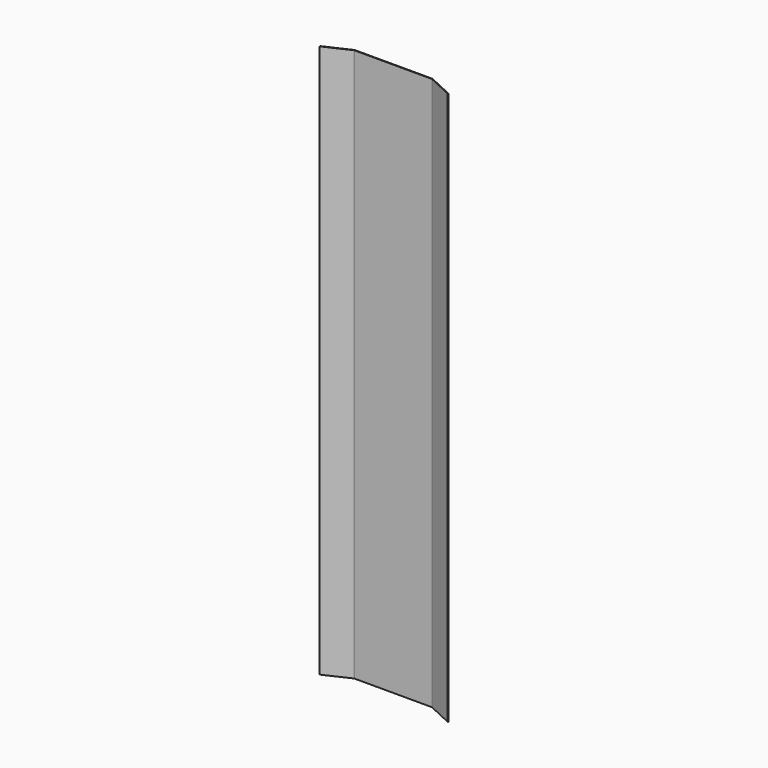
from build123d import *

# Parameters (mm, degrees)
F1_DEPTH = 2000


with BuildPart() as f1:
    # F0 (on Top) → F1 (new body)
    with BuildSketch(Plane.XY):
        with BuildLine():
            Line((140, 1), (0, 1))
            Line((0, 1), (-140, 1))
            ThreePointArc((-140, 1), (-140.865758, 0.905184), (-141.690473, 0.625231))
            Line((-141.690473, 0.625231), (-232.321252, -41.636595))
            Line((-232.321252, -41.636595), (-231.476015, -43.449211))
            Line((-231.476015, -43.449211), (-140.845237, -1.187384))
            ThreePointArc((-140.845237, -1.187384), (-140.432879, -1.047408), (-140, -1))
            Line((-140, -1), (0, -1))
            Line((0, -1), (140, -1))
            ThreePointArc((140, -1), (140.432879, -1.047408), (140.845237, -1.187384))
            Line((140.845237, -1.187384), (231.476015, -43.449211))
            Line((231.476015, -43.449211), (232.321252, -41.636595))
            Line((232.321252, -41.636595), (141.690473, 0.625231))
            ThreePointArc((141.690473, 0.625231), (140.865758, 0.905184), (140, 1))
        make_face()
    extrude(amount=F1_DEPTH)


solid = f1.part
